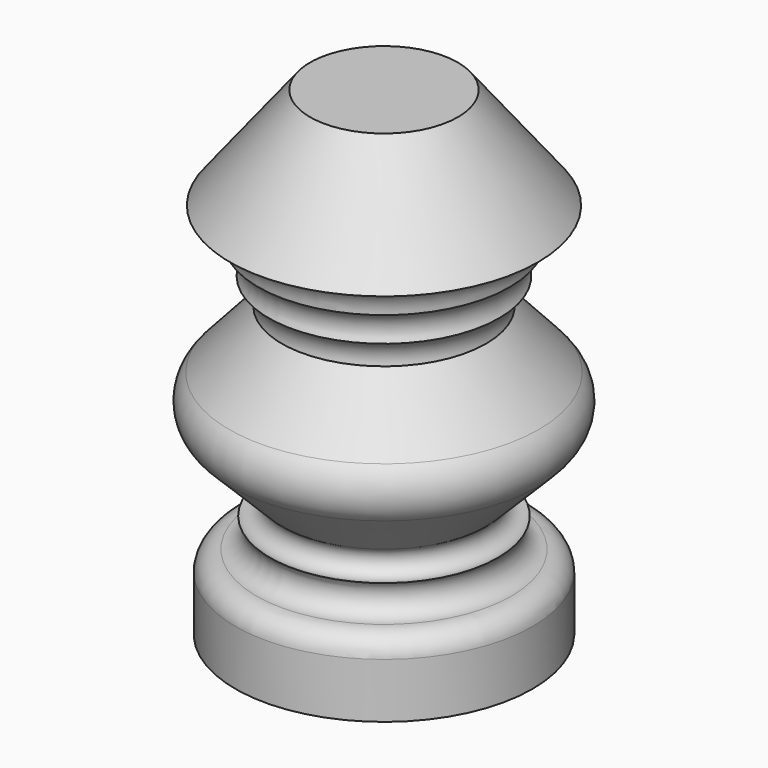
from build123d import *


with BuildPart() as f1:
    # F0 (on Front) → F1 (revolve)
    with BuildSketch(Plane.XZ):
        with BuildLine():
            Line((0, 64.487241), (0, 0))
            Line((0, 0), (20, 0))
            Line((20, 0), (20, 7.40288))
            ThreePointArc((20, 7.40288), (19.099727, 9.296544), (17.149178, 10.065842))
            ThreePointArc((17.149178, 10.065842), (14.976102, 11.455922), (15.327049, 14.011586))
            ThreePointArc((15.327049, 14.011586), (12.943379, 14.850799), (13.782592, 17.234469))
            Line((13.782592, 17.234469), (20.672034, 24.15998))
            ThreePointArc((20.672034, 24.15998), (22.120391, 27.551667), (20.839155, 31.009949))
            Line((20.839155, 31.009949), (13.746602, 38.871773))
            ThreePointArc((13.746602, 38.871773), (13.999875, 40.967593), (15.496266, 42.456694))
            ThreePointArc((15.496266, 42.456694), (15.29278, 44.824342), (16.895153, 46.579212))
            ThreePointArc((16.895153, 46.579212), (17.96551, 49.450443), (20.721726, 50.789438))
            Line((20.721726, 50.789438), (9.954128, 64.487241))
            Line((9.954128, 64.487241), (0, 64.487241))
        make_face()
    revolve(axis=Axis((0, 0, 32.243621), (0, 0, -1)))


solid = f1.part
